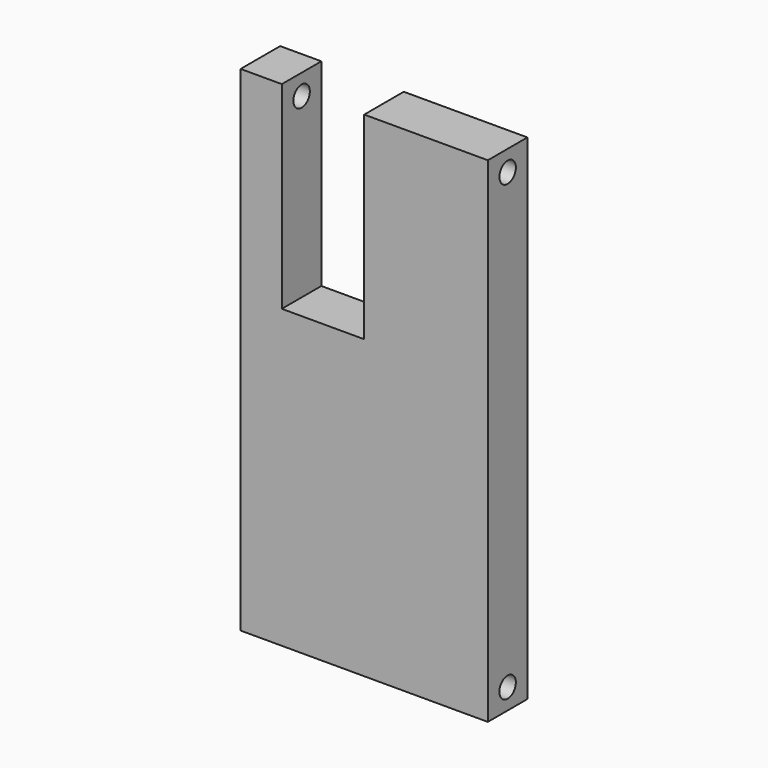
from build123d import *

# Parameters (mm, degrees)
F0_W     = 60
F0_H     = 120
F2_DEPTH = 12
F1_W     = 20
F1_H     = 48
F3_DEPTH = 12
F4_R     = 2.5
F5_DEPTH = 60.001
F6_R     = 2.5
F7_DEPTH = 152.4


with BuildPart() as f2:
    # F0 (on Front) → F2 (new body)
    with BuildSketch(Plane.XZ):
        Rectangle(F0_W, F0_H)
    extrude(amount=F2_DEPTH)

    # F1 (on face) → F3 (cut, through all)
    with BuildSketch(Plane.XZ):
        with Locations((-10, 36)):
            Rectangle(F1_W, F1_H)
    extrude(amount=F3_DEPTH, mode=Mode.SUBTRACT)

    # F4 (on face) → F5 (cut, through all)
    with BuildSketch(Plane.YZ.offset(30)):
        with Locations((-6, 55)):
            Circle(F4_R)
    extrude(amount=-F5_DEPTH, mode=Mode.SUBTRACT)

    # F6 (on face) → F7 (cut)
    with BuildSketch(Plane.YZ.offset(30)):
        with Locations((-6, -55)):
            Circle(F6_R)
    extrude(amount=-F7_DEPTH, mode=Mode.SUBTRACT)


solid = f2.part
